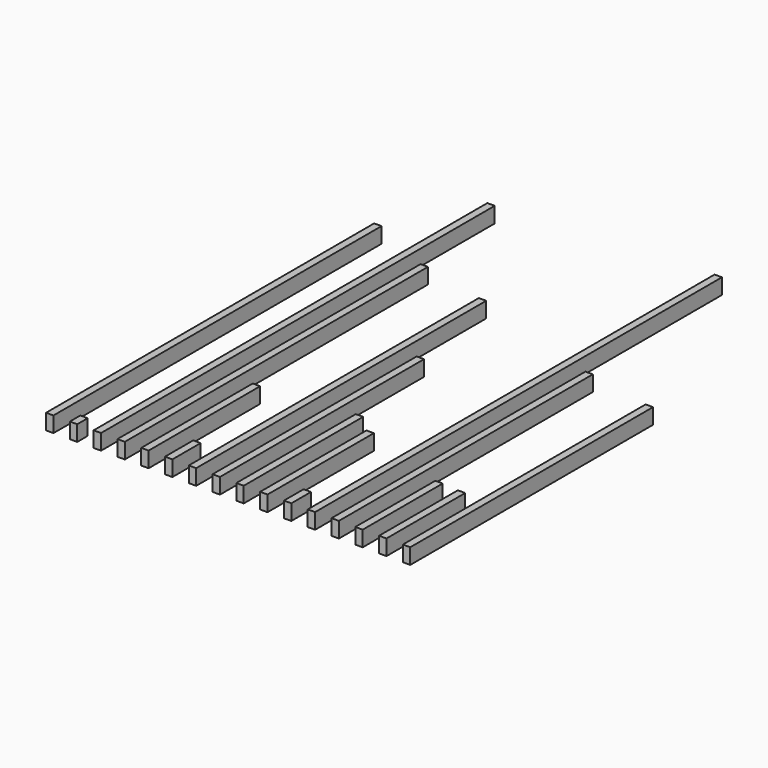
from build123d import *

# Parameters (mm, degrees)
F0_W      = 45
F0_H      = 95
F1_DEPTH  = 3000
F2_DEPTH  = 2310
F3_DEPTH  = 850
F4_DEPTH  = 215
F5_DEPTH  = 2210
F6_DEPTH  = 1555
F7_DEPTH  = 910
F8_DEPTH  = 810
F9_DEPTH  = 150
F10_DEPTH = 3100
F11_DEPTH = 1935
F12_DEPTH = 610
F13_DEPTH = 600
F14_DEPTH = 1850
F15_DEPTH = 80
F16_DEPTH = 2500


with BuildPart() as f1:
    # F0 (on Front) → F1 (new body)
    with BuildSketch(Plane.XZ):
        with Locations((22.5, 47.5)):
            Rectangle(F0_W, F0_H)
    extrude(amount=-F1_DEPTH)


with BuildPart() as f2:
    # F0 (on Front) → F2 (new body)
    with BuildSketch(Plane.XZ):
        with Locations((167.5, 47.5)):
            Rectangle(F0_W, F0_H)
    extrude(amount=-F2_DEPTH)


with BuildPart() as f3:
    # F0 (on Front) → F3 (new body)
    with BuildSketch(Plane.XZ):
        with Locations((312.5, 47.5)):
            Rectangle(F0_W, F0_H)
    extrude(amount=-F3_DEPTH)


with BuildPart() as f4:
    # F0 (on Front) → F4 (new body)
    with BuildSketch(Plane.XZ):
        with Locations((457.5, 47.5)):
            Rectangle(F0_W, F0_H)
    extrude(amount=-F4_DEPTH)


with BuildPart() as f5:
    # F0 (on Front) → F5 (new body)
    with BuildSketch(Plane.XZ):
        with Locations((602.5, 47.5)):
            Rectangle(F0_W, F0_H)
    extrude(amount=-F5_DEPTH)


with BuildPart() as f6:
    # F0 (on Front) → F6 (new body)
    with BuildSketch(Plane.XZ):
        with Locations((747.5, 47.5)):
            Rectangle(F0_W, F0_H)
    extrude(amount=-F6_DEPTH)


with BuildPart() as f7:
    # F0 (on Front) → F7 (new body)
    with BuildSketch(Plane.XZ):
        with Locations((892.5, 47.5)):
            Rectangle(F0_W, F0_H)
    extrude(amount=-F7_DEPTH)


with BuildPart() as f8:
    # F0 (on Front) → F8 (new body)
    with BuildSketch(Plane.XZ):
        with Locations((1037.5, 47.5)):
            Rectangle(F0_W, F0_H)
    extrude(amount=-F8_DEPTH)


with BuildPart() as f9:
    # F0 (on Front) → F9 (new body)
    with BuildSketch(Plane.XZ):
        with Locations((1182.5, 47.5)):
            Rectangle(F0_W, F0_H)
    extrude(amount=-F9_DEPTH)


with BuildPart() as f10:
    # F0 (on Front) → F10 (new body)
    with BuildSketch(Plane.XZ):
        with Locations((1327.5, 47.5)):
            Rectangle(F0_W, F0_H)
    extrude(amount=-F10_DEPTH)


with BuildPart() as f11:
    # F0 (on Front) → F11 (new body)
    with BuildSketch(Plane.XZ):
        with Locations((1472.5, 47.5)):
            Rectangle(F0_W, F0_H)
    extrude(amount=-F11_DEPTH)


with BuildPart() as f12:
    # F0 (on Front) → F12 (new body)
    with BuildSketch(Plane.XZ):
        with Locations((1617.5, 47.5)):
            Rectangle(F0_W, F0_H)
    extrude(amount=-F12_DEPTH)


with BuildPart() as f13:
    # F0 (on Front) → F13 (new body)
    with BuildSketch(Plane.XZ):
        with Locations((1762.5, 47.5)):
            Rectangle(F0_W, F0_H)
    extrude(amount=-F13_DEPTH)


with BuildPart() as f14:
    # F0 (on Front) → F14 (new body)
    with BuildSketch(Plane.XZ):
        with Locations((1907.5, 47.5)):
            Rectangle(F0_W, F0_H)
    extrude(amount=-F14_DEPTH)


with BuildPart() as f15:
    # F0 (on Front) → F15 (new body)
    with BuildSketch(Plane.XZ):
        with Locations((-122.5, 47.5)):
            Rectangle(F0_W, F0_H)
    extrude(amount=-F15_DEPTH)


with BuildPart() as f16:
    # F0 (on Front) → F16 (new body)
    with BuildSketch(Plane.XZ):
        with Locations((-267.5, 47.5)):
            Rectangle(F0_W, F0_H)
    extrude(amount=-F16_DEPTH)


solid = Compound([f1.part, f2.part, f3.part, f4.part, f5.part, f6.part, f7.part, f8.part, f9.part, f10.part, f11.part, f12.part, f13.part, f14.part, f15.part, f16.part])
